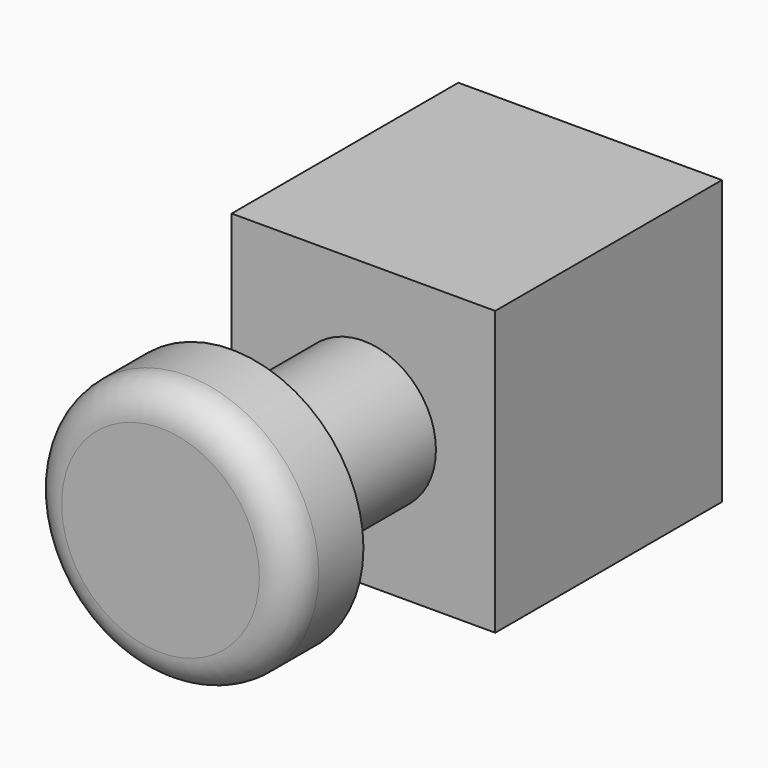
from build123d import *

# Parameters (mm, degrees)
F0_R     = 20
F1_DEPTH = 38.5
F2_W     = 40
F2_H     = 43
F3_DEPTH = 43
F4_R     = 20
F4_R_2   = 11
F5_DEPTH = 25
F6_R     = 5


with BuildPart() as f1:
    # F0 (on Front) → F1 (new body)
    with BuildSketch(Plane.XZ):
        Circle(F0_R)
    extrude(amount=F1_DEPTH)

    # F2 (on face) → F3 (join)
    with BuildSketch(Plane(origin=(0, 0, 0), x_dir=(-1, 0, 0), z_dir=(0, 1, 0))):
        Rectangle(F2_W, F2_H)
    extrude(amount=F3_DEPTH)

    # F4 (on face) → F5 (cut)
    with BuildSketch(Plane.XZ):
        Circle(F4_R)
        Circle(F4_R_2, mode=Mode.SUBTRACT)
    extrude(amount=F5_DEPTH, mode=Mode.SUBTRACT)

    # F6
    f6_edges = [f1.edges().sort_by_distance(p)[0] for p in [
        (-20, -38.5, 0),
    ]]
    fillet(f6_edges, radius=F6_R)


solid = f1.part
